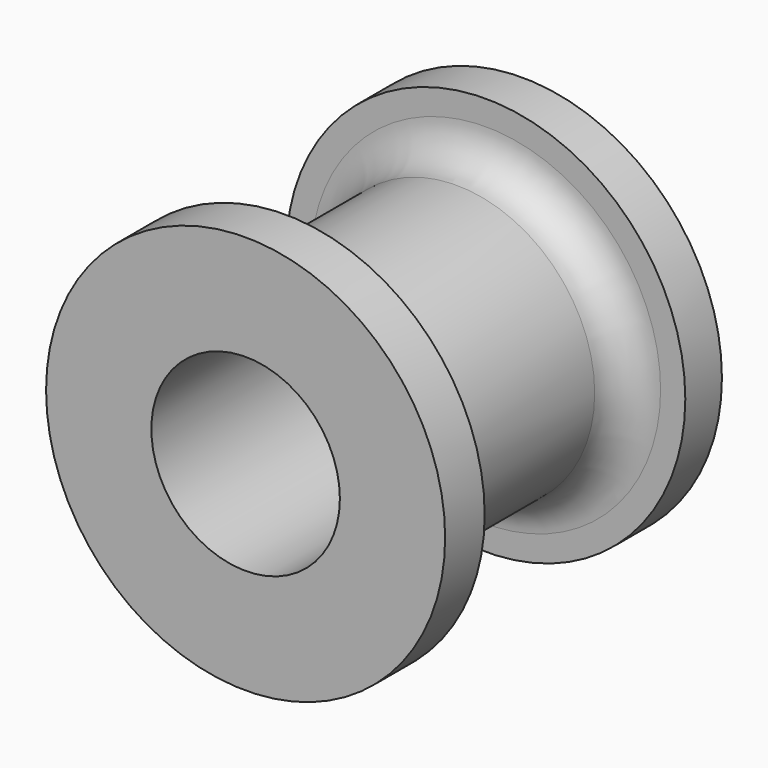
from build123d import *

# Parameters (mm, degrees)
F0_R     = 7.55
F1_DEPTH = 18.7
F2_R     = 10.9
F3_DEPTH = 2.3
F4_DEPTH = 0.2
F5_R     = 10.9
F6_DEPTH = 2.7
F7_R     = 5.15
F8_DEPTH = 50
F9_R     = 2


with BuildPart() as f1:
    # F0 (on Front) → F1 (new body)
    with BuildSketch(Plane.XZ):
        Circle(F0_R)
    extrude(amount=F1_DEPTH)

    # F2 (on face) → F3 (join)
    with BuildSketch(Plane(origin=(0, 0, 0), x_dir=(-1, 0, 0), z_dir=(0, 1, 0))):
        Circle(F2_R)
    extrude(amount=-F3_DEPTH)

    # F2 (on face) → F4 (join)
    with BuildSketch(Plane(origin=(0, 0, 0), x_dir=(-1, 0, 0), z_dir=(0, 1, 0))):
        Circle(F2_R)
    extrude(amount=F4_DEPTH)

    # F5 (on face) → F6 (join)
    with BuildSketch(Plane.XZ.offset(18.7)):
        Circle(F5_R)
    extrude(amount=-F6_DEPTH)

    # F7 (on Front) → F8 (cut, symmetric)
    with BuildSketch(Plane.XZ):
        Circle(F7_R)
    extrude(amount=F8_DEPTH, both=True, mode=Mode.SUBTRACT)

    # F9
    f9_edges = [f1.edges().sort_by_distance(p)[0] for p in [
        (-7.55, -2.3, 0),
        (-7.55, -16, 0),
    ]]
    fillet(f9_edges, radius=F9_R)


solid = f1.part
